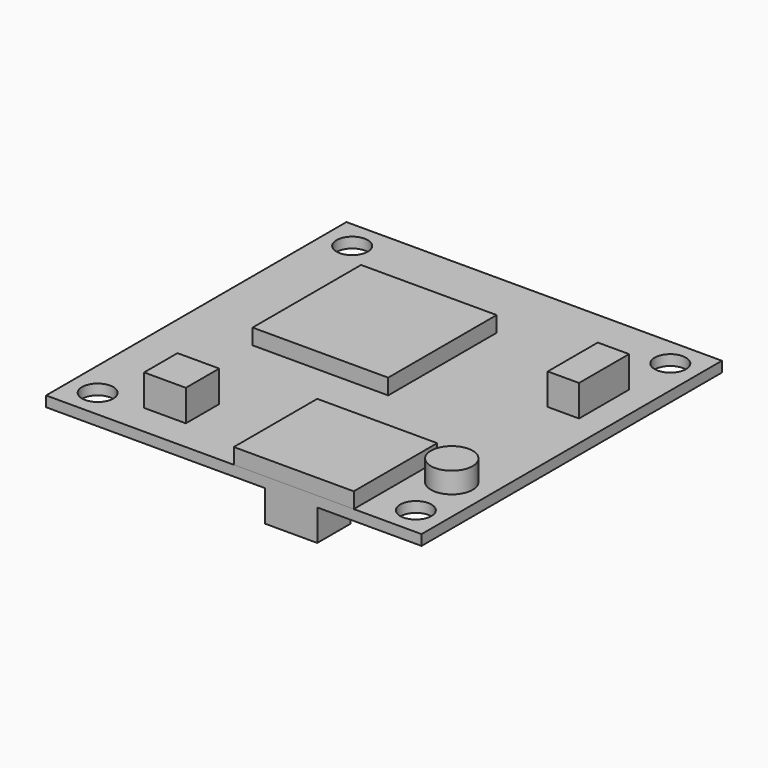
from build123d import *

# Parameters (mm, degrees)
F1_W     = 13
F1_H     = 13
F1_W_2   = 11.5
F1_H_2   = 10
F2_DEPTH = 1.5
F1_R     = 2
F3_DEPTH = 2
F1_W_3   = 3
F1_H_3   = 6
F1_W_4   = 4
F1_H_4   = 4
F4_DEPTH = 3
F0_W     = 36
F0_H     = 36
F0_R     = 1.5
F5_DEPTH = 1
F6_W     = 3
F6_H     = 2
F6_W_2   = 4
F6_H_2   = 4
F6_H_3   = 12
F7_DEPTH = 2
F6_W_3   = 5
F8_DEPTH = 3


with BuildPart() as f2:
    # F1 (on face) → F2 (new body)
    with BuildSketch(Plane.XY):
        with Locations((-4.5, 4.5)):
            Rectangle(F1_W, F1_H)
        with Locations((5.75, -13)):
            Rectangle(F1_W_2, F1_H_2)
    extrude(amount=F2_DEPTH)


with BuildPart() as f3:
    # F1 (on face) → F3 (new body)
    with BuildSketch(Plane.XY):
        with Locations((14.5, -10)):
            Circle(F1_R)
    extrude(amount=F3_DEPTH)


with BuildPart() as f4:
    # F1 (on face) → F4 (new body)
    with BuildSketch(Plane.XY):
        with Locations((14, 7)):
            Rectangle(F1_W_3, F1_H_3)
        with Locations((-9, -13)):
            Rectangle(F1_W_4, F1_H_4)
    extrude(amount=F4_DEPTH)


with BuildPart() as f5:
    # F0 (on Top) → F5 (new body)
    with BuildSketch(Plane.XY):
        Rectangle(F0_W, F0_H)
        with Locations((-15.25, -15.25)):
            Circle(F0_R, mode=Mode.SUBTRACT)
        with Locations((15.25, -15.25)):
            Circle(F0_R, mode=Mode.SUBTRACT)
        with Locations((-15.25, 15.25)):
            Circle(F0_R, mode=Mode.SUBTRACT)
        with Locations((15.25, 15.25)):
            Circle(F0_R, mode=Mode.SUBTRACT)
    extrude(amount=-F5_DEPTH)

    # F6 (on face) → F8 (join)
    with BuildSketch(Plane(origin=(0, 0, -1), x_dir=(1, 0, 0), z_dir=(0, 0, -1))):
        with Locations((5.5, 16)):
            Rectangle(F6_W_3, F6_H_2)
    extrude(amount=F8_DEPTH)


with BuildPart() as f7:
    # F6 (on face) → F7 (new body)
    with BuildSketch(Plane(origin=(0, 0, -1), x_dir=(1, 0, 0), z_dir=(0, 0, -1))):
        with Locations((-4.5, -17)):
            Rectangle(F6_W, F6_H)
        with Locations((-10.5, -17)):
            Rectangle(F6_W, F6_H)
        with Locations((9, -9)):
            Rectangle(F6_W_2, F6_H_2)
        with Locations((-16.5, 4)):
            Rectangle(F6_W, F6_H_3)
    extrude(amount=F7_DEPTH)


solid = Compound([f2.part, f3.part, f4.part, f5.part, f7.part])
